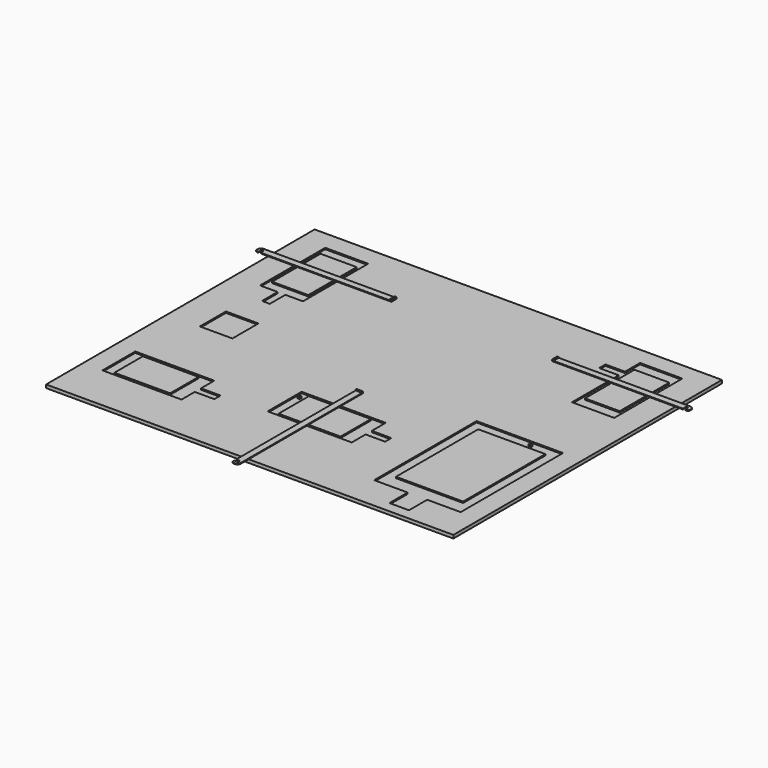
from build123d import *

# Parameters (mm, degrees)
F0_W      = 626
F0_H      = 516
F1_DEPTH  = 5
F3_W      = 95.3
F3_H      = 58.2
F3_R      = 2.5
F3_W_2    = 30
F3_H_2    = 12
F4_W      = 55.6
F4_H      = 93
F4_W_2    = 12
F4_H_2    = 30
F5_W      = 103.2
F5_H      = 158
F5_R      = 2.5
F5_W_2    = 30
F5_H_2    = 35
F2_W      = 53.4
F2_H      = 95.1
F2_W_2    = 30
F2_H_2    = 12
F6_W      = 85.68197
F6_H      = 54.6
F6_W_2    = 30
F6_H_2    = 12
F7_W      = 50
F7_H      = 50
F8_DEPTH  = 2
F10_DEPTH = 1.2
F12_DEPTH = 10
F14_DEPTH = 1.2
F16_DEPTH = 10
F18_DEPTH = 10


with BuildPart() as f1:
    # F0 (on Top) → F1 (new body)
    with BuildSketch(Plane.XY):
        with Locations((313, 258)):
            Rectangle(F0_W, F0_H)
    extrude(amount=F1_DEPTH)

    # F3 (on face) + F4 (on face) + F5 (on face) + F2 (on face) + F6 (on face) + F7 (on face) → F8 (cut)
    with BuildSketch(Plane.XY.offset(5)):
        Polygon((251.35, 111.45), (380.65, 111.45), (380.65, 138.1), (380.65, 150.1), (380.65, 176.75), (251.35, 176.75), align=None)
        with Locations((313, 144.1)):
            Rectangle(F3_W, F3_H, mode=Mode.SUBTRACT)
        with Locations((256.85, 165.65)):
            Circle(F3_R, mode=Mode.SUBTRACT)
        with Locations((395.65, 144.1)):
            Rectangle(F3_W_2, F3_H_2)
    with BuildSketch(Plane.XY.offset(5)):
        Polygon((78.8, 361.3), (105.85, 361.3), (105.85, 486.6), (39.75, 486.6), (39.75, 361.3), (66.8, 361.3), align=None)
        with Locations((72.8, 424.5)):
            Rectangle(F4_W, F4_H, mode=Mode.SUBTRACT)
        with Locations((72.8, 346.3)):
            Rectangle(F4_W_2, F4_H_2)
    with BuildSketch(Plane.XY.offset(5)):
        Polygon((544.4, 51.7), (595.9, 51.7), (595.9, 248.4), (462.9, 248.4), (462.9, 51.7), (514.4, 51.7), align=None)
        with Locations((529.4, 154)):
            Rectangle(F5_W, F5_H, mode=Mode.SUBTRACT)
        with Locations((551.9, 240.7)):
            Circle(F5_R, mode=Mode.SUBTRACT)
        with Locations((529.4, 34.2)):
            Rectangle(F5_W_2, F5_H_2)
    with BuildSketch(Plane.XY.offset(5)):
        Polygon((521.8, 358.1), (586.8, 358.1), (586.8, 489), (521.8, 489), (521.8, 460), (521.8, 448), align=None)
        with Locations((554.3, 423.45)):
            Rectangle(F2_W, F2_H, mode=Mode.SUBTRACT)
        with Locations((506.8, 454)):
            Rectangle(F2_W_2, F2_H_2)
    with BuildSketch(Plane.XY.offset(5)):
        Polygon((151.5, 108.3), (151.5, 133.8), (30, 133.8), (30, 70.8), (151.5, 70.8), (151.5, 96.3), align=None)
        with Locations((87.840985, 102.3)):
            Rectangle(F6_W, F6_H, mode=Mode.SUBTRACT)
        with Locations((166.5, 102.3)):
            Rectangle(F6_W_2, F6_H_2)
    with BuildSketch(Plane.XY.offset(5)):
        with Locations((75, 258)):
            Rectangle(F7_W, F7_H)
    extrude(amount=-F8_DEPTH, mode=Mode.SUBTRACT)


with BuildPart() as f10:
    # F9 (on face) → F10 (new body)
    with BuildSketch(Plane.XY.offset(5)):
        with BuildLine():
            Line((189.5, 436.6), (-15, 436.6))
            ThreePointArc((-15, 436.6), (-18.535534, 435.135534), (-20, 431.6))
            Line((-20, 431.6), (-20, 429.6))
            ThreePointArc((-20, 429.6), (-19.12132, 427.47868), (-17, 426.6))
            Line((-17, 426.6), (-16, 426.6))
            ThreePointArc((-16, 426.6), (-15.292893, 426.892893), (-15, 427.6))
            Line((-15, 427.6), (-15, 431.6))
            ThreePointArc((-15, 431.6), (-14.707107, 432.307107), (-14, 432.6))
            Line((-14, 432.6), (-12.5, 432.6))
            ThreePointArc((-12.5, 432.6), (-11.792893, 432.307107), (-11.5, 431.6))
            Line((-11.5, 431.6), (-11.5, 427.6))
            ThreePointArc((-11.5, 427.6), (-11.207107, 426.892893), (-10.5, 426.6))
            Line((-10.5, 426.6), (189.5, 426.6))
            Line((189.5, 426.6), (189.5, 436.6))
        make_face()
        with BuildLine():
            Line((642, 426.6), (643, 426.6))
            ThreePointArc((643, 426.6), (645.12132, 427.47868), (646, 429.6))
            Line((646, 429.6), (646, 431.6))
            ThreePointArc((646, 431.6), (644.535534, 435.135534), (641, 436.6))
            Line((641, 436.6), (436.5, 436.6))
            Line((436.5, 436.6), (436.5, 426.6))
            Line((436.5, 426.6), (636.5, 426.6))
            ThreePointArc((636.5, 426.6), (637.207107, 426.892893), (637.5, 427.6))
            Line((637.5, 427.6), (637.5, 431.6))
            ThreePointArc((637.5, 431.6), (637.792893, 432.307107), (638.5, 432.6))
            Line((638.5, 432.6), (640, 432.6))
            ThreePointArc((640, 432.6), (640.707107, 432.307107), (641, 431.6))
            Line((641, 431.6), (641, 427.6))
            ThreePointArc((641, 427.6), (641.292893, 426.892893), (642, 426.6))
        make_face()
    extrude(amount=F10_DEPTH)

    # F11 (on face) → F12 (join, through all)
    with BuildSketch(Plane.XZ.offset(-426.6)):
        Polygon((187.50692, 6.2), (189.5, 6.2), (189.5, 7.4), (186.5, 7.4), align=None)
    extrude(amount=-F12_DEPTH)

    # F17 (on face) → F18 (join, through all)
    with BuildSketch(Plane.XZ.offset(-426.6)):
        Polygon((436.5, 7.4), (436.5, 6.2), (438.49308, 6.2), (439.5, 7.4), align=None)
    extrude(amount=-F18_DEPTH)


with BuildPart() as f14:
    # F13 (on face) → F14 (new body)
    with BuildSketch(Plane.XY.offset(5)):
        with BuildLine():
            Line((311.35, 220), (301.35, 220))
            Line((301.35, 220), (301.35, -10.5))
            ThreePointArc((301.35, -10.5), (301.642893, -11.207107), (302.35, -11.5))
            Line((302.35, -11.5), (306.35, -11.5))
            ThreePointArc((306.35, -11.5), (307.057107, -11.792893), (307.35, -12.5))
            Line((307.35, -12.5), (307.35, -14))
            ThreePointArc((307.35, -14), (307.057107, -14.707107), (306.35, -15))
            Line((306.35, -15), (302.35, -15))
            ThreePointArc((302.35, -15), (301.642893, -15.292893), (301.35, -16))
            Line((301.35, -16), (301.35, -17))
            ThreePointArc((301.35, -17), (302.22868, -19.12132), (304.35, -20))
            Line((304.35, -20), (306.35, -20))
            ThreePointArc((306.35, -20), (309.885534, -18.535534), (311.35, -15))
            Line((311.35, -15), (311.35, 220))
        make_face()
    extrude(amount=F14_DEPTH)

    # F15 (on face) → F16 (join, through all)
    with BuildSketch(Plane(origin=(301.35, 0, 0), x_dir=(0, -1, 0), z_dir=(-1, 0, 0))):
        Polygon((-220, 7.4), (-220, 6.2), (-218.00692, 6.2), (-217, 7.4), align=None)
    extrude(amount=-F16_DEPTH)


solid = Compound([f1.part, f10.part, f14.part])
